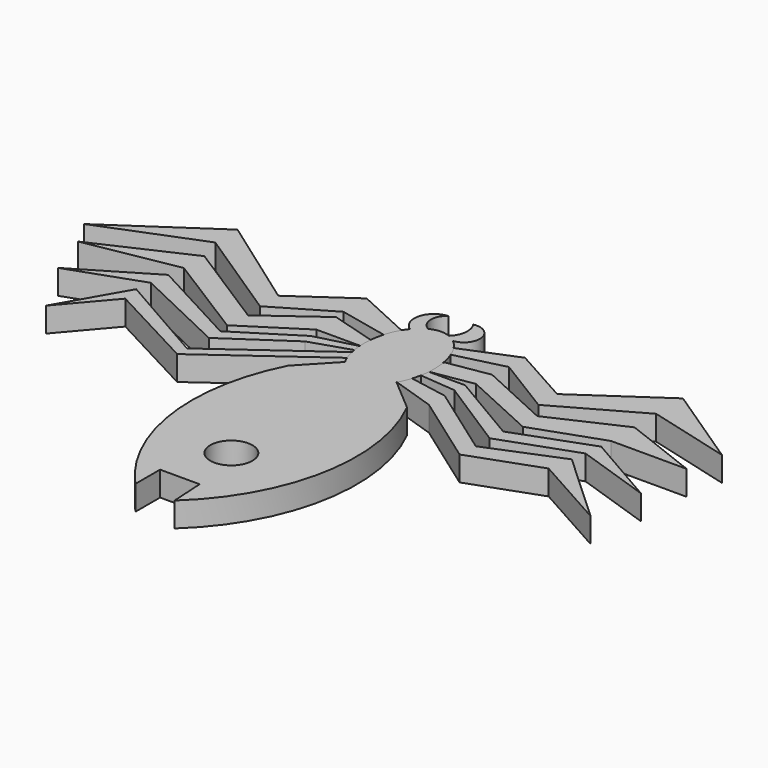
from build123d import *

# Parameters (mm, degrees)
F2_DEPTH = 7
F0_R     = 6.001793311


with BuildPart() as f2:
    # F1 (on Top) → F2 (new body)
    with BuildSketch(Plane.XY):
        Polygon((-9.2018917203, 65.600566566), (-7.7365781023, 69.8846236704), (-22.973915562, 76.861359179), (-39.1348786652, 65.600566566), (-66.0698190331, 84.7834050655), (-94.3563714088, 65.600566566), (-66.0698190331, 76.861359179), (-39.1348786652, 59.1159909964), (-22.973915562, 68.6224400997), align=None)
        Polygon((-8.6877066642, 65.600566566), (-7.7365781023, 69.8846236704), (-9.2018917203, 65.600566566), align=None)
        Polygon((-7.2574589443, 69.779494786), (-7.7365781023, 69.8846236704), (-8.6877066642, 65.600566566), (-8.1744042482, 65.600566566), align=None)
    extrude(amount=F2_DEPTH)


with BuildPart() as f2b:
    # F1 (on Top) → F2, piece 2 (new body)
    with BuildSketch(Plane.XY):
        Polygon((8.8290832937, 53.1067475677), (9.2201554216, 55.5075071752), (8.7148769459, 52.8279593083), align=None)
        Polygon((19.8051016778, 51.1241875359), (8.8290832937, 53.1067475677), (8.0670248717, 49.3923278159), (19.8051016778, 45.5273630774), (40.0554117326, 31.1052621913), (59.7321800888, 38.2018052042), (81.2801346183, 26.1603035033), (60.9997063875, 44.8563210666), (40.4092817274, 36.4500634091), align=None)
        Polygon((8.0670248717, 49.3923278159), (8.8290832937, 53.1067475677), (8.7148769459, 52.8279593083), align=None)
        Polygon((8.0670248717, 49.3923278159), (8.7148769459, 52.8279593083), (7.3977382849, 49.6127019964), align=None)
    extrude(amount=F2_DEPTH)


with BuildPart() as f2c:
    # F1 (on Top) → F2, piece 3 (new body)
    with BuildSketch(Plane.XY):
        Polygon((20.1951572392, 57.9082667828), (9.6112275496, 57.9082667828), (9.2201554216, 55.5075071752), (19.8051016778, 54.5517574751), (40.4024086893, 41.3706228137), (61.6334713995, 48.9757806063), (83.1814184785, 41.6875034571), (62.2672326863, 53.7290051579), (40.7192893326, 45.8069629967), align=None)
    extrude(amount=F2_DEPTH)


with BuildPart() as f2d:
    # F1 (on Top) → F2, piece 4 (new body)
    with BuildSketch(Plane.XY):
        Polygon((21.7063911259, 65.600566566), (9.6610620067, 63.6080494471), (9.6112275496, 57.9082667828), (21.7063911259, 59.9090274297), (42.6852558357, 50.3034128834), (62.2672326863, 57.2147034109), (83.8151872158, 57.2147034109), (62.2672326863, 65.600566566), (41.9985157897, 56.3093903969), align=None)
    extrude(amount=F2_DEPTH)


with BuildPart() as f2e:
    # F1 (on Top) → F2, piece 5 (new body)
    with BuildSketch(Plane.XY):
        Polygon((22.3401542753, 76.5444785357), (6.8129552528, 70.2068507671), (8.3973631263, 67.3549100757), (22.3401542753, 70.8406120539), (38.8179980218, 60.7004016638), (61.9503520429, 73.6925452948), (85.716471076, 67.3549100757), (61.9503520429, 83.1989943981), (38.8179980218, 67.3549100757), align=None)
    extrude(amount=F2_DEPTH)


with BuildPart() as f2f:
    # F1 (on Top) → F2, piece 6 (new body)
    with BuildSketch(Plane.XY):
        Polygon((-9.2018917203, 58.165345341), (-9.2018917203, 61.6621409912), (-22.6894478348, 65.600566566), (-38.5011173785, 54.0458858013), (-63.8516396284, 70.2068507671), (-90.1528149843, 58.165345341), (-63.8516396284, 62.9185736179), (-39.1348786652, 47.3913699389), (-22.3401524127, 58.165345341), align=None)
    extrude(amount=F2_DEPTH)


with BuildPart() as f2g:
    # F1 (on Top) → F2, piece 7 (new body)
    with BuildSketch(Plane.XY):
        Polygon((-9.2018917203, 55.8889657259), (-9.2018917203, 58.165345341), (-21.3895086199, 54.9965277314), (-38.5011173785, 44.2225560546), (-64.4854083657, 58.165345341), (-85.7164785266, 45.4900823534), (-65.1191696525, 52.7783595026), (-38.5011173785, 40.1030927896), (-20.7557454705, 52.1445982158), align=None)
    extrude(amount=F2_DEPTH)


with BuildPart() as f2h:
    # F1 (on Top) → F2, piece 8 (new body)
    with BuildSketch(Plane.XY):
        Polygon((-8.4703536704, 51.8341325223), (-9.3526932465, 54.686120996), (-39.1348786652, 33.1317000091), (-65.7529383898, 48.3420193195), (-76.4391598123, 29.6411311758), (-64.8022890091, 43.2719103992), (-39.1348786652, 29.6411311758), align=None)
    extrude(amount=F2_DEPTH)


with BuildPart() as f2i:
    # F0 (on Top) → F2, piece 9 (new body)
    with BuildSketch(Plane.XY):
        with BuildLine():
            add(Edge.make_bspline(
                [(2.5091840812, 74.2214696281), (1.275189863, 74.7092217207), (0, 74.7092217207)],
                knots=[6.0283090467, 6.0283090467, 6.0283090467, 6.2831853072, 6.2831853072, 6.2831853072], degree=2, weights=[1, 0.9918907452, 1]))
            add(Edge.make_bspline(
                [(0, 74.7092217207), (-1.6167117648, 74.7092217207), (-3.1502883978, 73.9328411143)],
                knots=[0, 0, 0, 0.322084502, 0.322084502, 0.322084502], degree=2, weights=[1, 0.9870606976, 1]))
            add(Edge.make_bspline(
                [(-3.1502883978, 73.9328411143), (-4.8597889321, 73.0673981799), (-6.2606890382, 71.3474702214)],
                knots=[0.322084502, 0.322084502, 0.322084502, 0.6803706018, 0.6803706018, 0.6803706018], degree=2, weights=[1, 0.9839967509, 1]))
            add(Edge.make_bspline(
                [(-6.2606890382, 71.3474702214), (-14.0956980801, 61.7281896981), (-7.6560782658, 49.9649534)],
                knots=[0.6803706018, 0.6803706018, 0.6803706018, 2.2638612684, 2.2638612684, 2.2638612684], degree=2, weights=[1, 0.702604441, 1]))
            add(Edge.make_bspline(
                [(-7.6560782658, 49.9649534), (-0.3089048412, 36.5438913486), (7.39151443, 49.5011744871)],
                knots=[2.2638612684, 2.2638612684, 2.2638612684, 3.9786977641, 3.9786977641, 3.9786977641], degree=2, weights=[1, 0.6543918533, 1]))
            add(Edge.make_bspline(
                [(7.39151443, 49.5011744871), (15.8091647836, 63.6653225872), (4.7904175132, 72.8450629179)],
                knots=[3.9786977641, 3.9786977641, 3.9786977641, 5.780994961, 5.780994961, 5.780994961], degree=2, weights=[1, 0.6207098304, 1]))
            add(Edge.make_bspline(
                [(4.7904175132, 72.8450629179), (3.7061840278, 73.7483399974), (2.5091840812, 74.2214696281)],
                knots=[5.780994961, 5.780994961, 5.780994961, 6.0283090467, 6.0283090467, 6.0283090467], degree=2, weights=[1, 0.9923642053, 1]))
        make_face()
        with BuildLine():
            add(Edge.make_bspline(
                [(-3.1502883978, 73.9328411143), (-4.8597889321, 73.0673981799), (-6.2606890382, 71.3474702214)],
                knots=[0.322084502, 0.322084502, 0.322084502, 0.6803706018, 0.6803706018, 0.6803706018], degree=2, weights=[1, 0.9839967509, 1]))
            ThreePointArc((-3.1502883978, 73.9328411143), (-5.4897898019, 77.648877575), (-3.5254174191, 81.5761457016))
            ThreePointArc((-3.5254174191, 81.5761457016), (-8.5534059956, 77.440630592), (-6.2606890382, 71.3474702214))
        make_face()
        with BuildLine():
            ThreePointArc((3.3414482051, 81.8452960515), (4.3461761215, 77.878272962), (2.5091840812, 74.2214696281))
            add(Edge.make_bspline(
                [(4.7904175132, 72.8450629179), (3.7061840278, 73.7483399974), (2.5091840812, 74.2214696281)],
                knots=[5.780994961, 5.780994961, 5.780994961, 6.0283090467, 6.0283090467, 6.0283090467], degree=2, weights=[1, 0.9923642053, 1]))
            ThreePointArc((4.7904175132, 72.8450629179), (8.7742862639, 78.1031886911), (3.3414482051, 81.8452960515))
        make_face()
        with BuildLine():
            add(Edge.make_bspline(
                [(-7.6560782658, 49.9649534), (-0.3089048412, 36.5438913486), (7.39151443, 49.5011744871)],
                knots=[2.2638612684, 2.2638612684, 2.2638612684, 3.9786977641, 3.9786977641, 3.9786977641], degree=2, weights=[1, 0.6543918533, 1]))
            Line((-7.6560782658, 49.9649534), (-16.4058412819, 40.6788752355))
            ThreePointArc((-16.4058412819, 40.6788752355), (-22.1797809449, 6.4515630322), (-7.3634781875, -24.9383151531))
            Line((-7.3634781875, -24.9383151531), (-7.3634781875, -16.1539614201))
            Line((-7.3634781875, -16.1539614201), (3.8914789911, -16.1539614201))
            Line((3.8914789911, -16.1539614201), (4.440499004, -25.7618501782))
            ThreePointArc((4.440499004, -25.7618501782), (21.9072802596, 5.7952549798), (16.7852827208, 41.4982586993))
            Line((16.7852827208, 41.4982586993), (7.39151443, 49.5011744871))
        make_face()
        Circle(F0_R, mode=Mode.SUBTRACT)
    extrude(amount=F2_DEPTH)


solid = Compound([f2.part, f2b.part, f2c.part, f2d.part, f2e.part, f2f.part, f2g.part, f2h.part, f2i.part])
